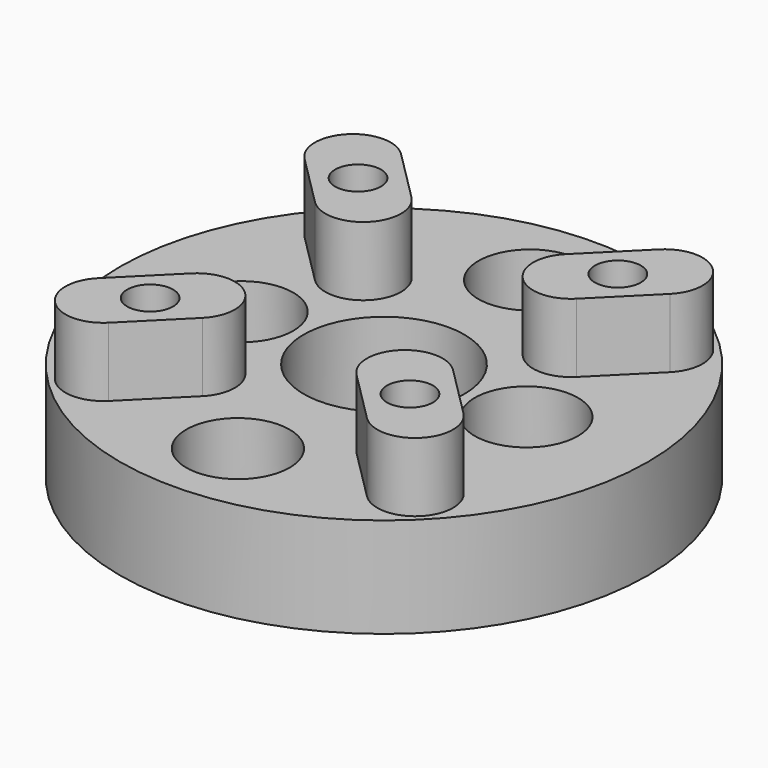
from build123d import *

# Parameters (mm, degrees)
F0_R     = 11.5
F0_R_2   = 1.3
F0_R_3   = 3.5
F1_DEPTH = 4.35
F4_DEPTH = 3
F6_R     = 2.25
F7_DEPTH = 2.6
F8_R     = 1
F9_DEPTH = 8


with BuildPart() as f1:
    # F0 (on Top) → F1 (new body)
    with BuildSketch(Plane.XY):
        Circle(F0_R)
        with Locations((0, -7.95)):
            Circle(F0_R_2, mode=Mode.SUBTRACT)
        with Locations((-6.2, 0)):
            Circle(F0_R_2, mode=Mode.SUBTRACT)
        Circle(F0_R_3, mode=Mode.SUBTRACT)
        with Locations((6.2, 0)):
            Circle(F0_R_2, mode=Mode.SUBTRACT)
        with Locations((0, 7.95)):
            Circle(F0_R_2, mode=Mode.SUBTRACT)
    extrude(amount=F1_DEPTH)

    # F3 (on offset) → F4 (join)
    with BuildSketch(Plane.XY.offset(4.35)):
        with BuildLine():
            ThreePointArc((5.69221, -3.358757), (3.358757, -3.358757), (3.358757, -5.69221))
            Line((3.358757, -5.69221), (5.621499, -7.954951))
            ThreePointArc((5.621499, -7.954951), (7.954951, -7.954951), (7.954951, -5.621499))
            Line((7.954951, -5.621499), (5.69221, -3.358757))
        make_face()
        with BuildLine():
            ThreePointArc((3.358757, 5.69221), (3.358757, 3.358757), (5.69221, 3.358757))
            Line((5.69221, 3.358757), (7.954951, 5.621499))
            ThreePointArc((7.954951, 5.621499), (7.954951, 7.954951), (5.621499, 7.954951))
            Line((5.621499, 7.954951), (3.358757, 5.69221))
        make_face()
        with BuildLine():
            ThreePointArc((-5.69221, 3.358757), (-3.358757, 3.358757), (-3.358757, 5.69221))
            Line((-3.358757, 5.69221), (-5.621499, 7.954951))
            ThreePointArc((-5.621499, 7.954951), (-7.954951, 7.954951), (-7.954951, 5.621499))
            Line((-7.954951, 5.621499), (-5.69221, 3.358757))
        make_face()
        with BuildLine():
            ThreePointArc((-3.358757, -5.69221), (-3.358757, -3.358757), (-5.69221, -3.358757))
            Line((-5.69221, -3.358757), (-7.954951, -5.621499))
            ThreePointArc((-7.954951, -5.621499), (-7.954951, -7.954951), (-5.621499, -7.954951))
            Line((-5.621499, -7.954951), (-3.358757, -5.69221))
        make_face()
    extrude(amount=F4_DEPTH)

    # F6 (on offset) → F7 (cut)
    with BuildSketch(Plane.XY.offset(1.8)):
        with Locations((0, -7.95)):
            Circle(F6_R)
        with Locations((6.2, 0)):
            Circle(F6_R)
        with Locations((0, 7.95)):
            Circle(F6_R)
        with Locations((-6.2, 0)):
            Circle(F6_R)
    extrude(amount=F7_DEPTH, mode=Mode.SUBTRACT)

    # F8 (on Top) → F9 (cut)
    with BuildSketch(Plane.XY):
        with Locations((5.656854, -5.656854)):
            Circle(F8_R)
        with Locations((5.656854, 5.656854)):
            Circle(F8_R)
        with Locations((-5.656854, 5.656854)):
            Circle(F8_R)
        with Locations((-5.656854, -5.656854)):
            Circle(F8_R)
    extrude(amount=F9_DEPTH, mode=Mode.SUBTRACT)


solid = f1.part
